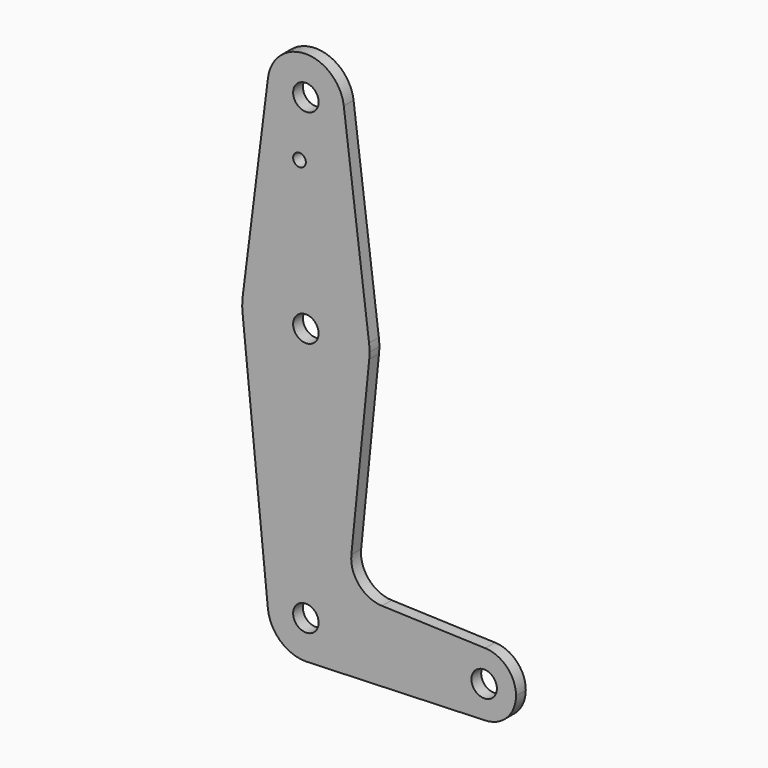
from build123d import *

# Parameters (mm, degrees)
F0_R     = 3.175
F0_R_2   = 1.5875
F1_DEPTH = 3.048


with BuildPart() as f1:
    # F0 (on Front) → F1 (new body)
    with BuildSketch(Plane.XZ):
        with BuildLine():
            ThreePointArc((-9.450293, 115.490625), (-0.596483, 104.793695), (9.525, 114.3))
            ThreePointArc((9.525, 114.3), (9.506305, 114.896483), (9.450293, 115.490625))
            ThreePointArc((9.450293, 115.490625), (0, 123.825), (-9.450293, 115.490625))
        make_face()
        with Locations((0, 114.3)):
            Circle(F0_R, mode=Mode.SUBTRACT)
        with BuildLine():
            ThreePointArc((9.450293, 115.490625), (9.506305, 114.896483), (9.525, 114.3))
            ThreePointArc((9.525, 114.3), (-0.596483, 104.793695), (-9.450293, 115.490625))
            Line((-9.450293, 115.490625), (-15.750488, 65.484375))
            ThreePointArc((-15.750488, 65.484375), (0, 79.375), (15.750488, 65.484375))
            Line((15.750488, 65.484375), (9.450293, 115.490625))
        make_face()
        with Locations((-1.5875, 100.0252)):
            Circle(F0_R_2, mode=Mode.SUBTRACT)
        with BuildLine():
            ThreePointArc((15.875, 63.5), (15.843841, 64.494139), (15.750488, 65.484375))
            ThreePointArc((15.750488, 65.484375), (0, 79.375), (-15.750488, 65.484375))
            ThreePointArc((-15.750488, 65.484375), (-15.873744, 63.699705), (-15.795426, 61.9125))
            ThreePointArc((-15.795426, 61.9125), (0, 47.625), (15.795426, 61.9125))
            ThreePointArc((15.795426, 61.9125), (15.855094, 62.705253), (15.875, 63.5))
        make_face()
        with Locations((0, 63.5)):
            Circle(F0_R, mode=Mode.SUBTRACT)
        with BuildLine():
            ThreePointArc((15.795426, 61.9125), (0, 47.625), (-15.795426, 61.9125))
            Line((-15.795426, 61.9125), (-9.477255, -0.9525))
            ThreePointArc((-9.477255, -0.9525), (-0.476848, 9.513056), (9.525, 0))
            ThreePointArc((9.525, 0), (6.970557, -6.491299), (0.677344, -9.500886))
            Line((0.677344, -9.500886), (44.732405, -7.932475))
            ThreePointArc((44.732405, -7.932475), (36.5125, 0.000539), (44.733482, 7.932436))
            Line((44.733482, 7.932436), (18.9676, 8.853234))
            ThreePointArc((18.9676, 8.853234), (13.2612, 11.571359), (11.341187, 17.593382))
            Line((11.341187, 17.593382), (15.795426, 61.9125))
        make_face()
        with BuildLine():
            ThreePointArc((9.525, 0), (-0.476848, 9.513056), (-9.477255, -0.9525))
            ThreePointArc((-9.477255, -0.9525), (-6.389564, -7.063929), (0, -9.525))
            Line((0, -9.525), (0.677344, -9.500886))
            ThreePointArc((0.677344, -9.500886), (6.970557, -6.491299), (9.525, 0))
        make_face()
        Circle(F0_R, mode=Mode.SUBTRACT)
        with BuildLine():
            ThreePointArc((52.3875, 0), (50.162007, 5.511523), (44.733482, 7.932436))
            ThreePointArc((44.733482, 7.932436), (36.5125, 0.000539), (44.732405, -7.932475))
            ThreePointArc((44.732405, -7.932475), (50.161633, -5.51191), (52.3875, 0))
        make_face()
        with Locations((44.45, 0)):
            Circle(F0_R, mode=Mode.SUBTRACT)
    extrude(amount=F1_DEPTH)


solid = f1.part
